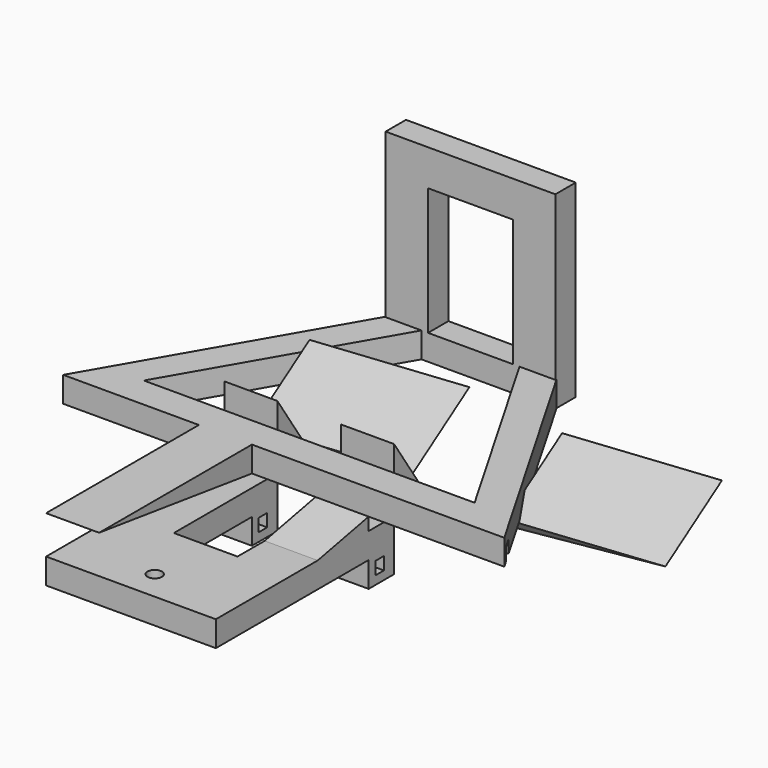
from build123d import *

# Parameters (mm, degrees)
BOX023_W                                  = 220
BOX023_H                                  = 2.5
BOX023_DEPTH                              = 3
EXTRUDE011_DEPTH                          = 10
BOX024_W                                  = 220
BOX024_H                                  = 113
BOX024_DEPTH                              = 8
BOX026_W                                  = 32
BOX026_H                                  = 6
BOX026_DEPTH                              = 6
PRISM004_DEPTH                            = 6
PRISM004_PLACEMENT_ANGLE                  = 30
PRISM005_DEPTH                            = 6
PRISM005_PLACEMENT_ANGLE                  = 30
BOX033_W                                  = 220
BOX033_H                                  = 2.5
BOX033_DEPTH                              = 3
EXTRUDE012_DEPTH                          = 12.5
EXTRUDE014_DEPTH                          = 12.5
EXTRUDE013_DEPTH                          = 12.5
EXTRUDE015_DEPTH                          = 12.5
BOX009_W                                  = 12.5
BOX009_H                                  = 7.5
BOX009_DEPTH                              = 12
BOX010_W                                  = 12.5
BOX010_H                                  = 7.5
BOX010_DEPTH                              = 12
CYLINDER_R                                = 1.7
CYLINDER_DEPTH                            = 30
BOX007_W                                  = 15
BOX007_H                                  = 70
BOX007_DEPTH                              = 6
BOX006_W                                  = 40
BOX006_H                                  = 51
BOX006_DEPTH                              = 6
EXTRUDE016_DEPTH                          = 20
EXTRUDE016_ONTO_SKETCH014_ROLL_ANGLE      = 56.309932
EXTRUDE016_ONTO_SKETCH014_PLACEMENT_ANGLE = 180
EXTRUDE017_DEPTH                          = 20
EXTRUDE017_ONTO_SKETCH014_ROLL_ANGLE      = 56.309932
EXTRUDE017_ONTO_SKETCH014_PLACEMENT_ANGLE = 180
BOX005_W                                  = 20
BOX005_H                                  = 6
BOX005_DEPTH                              = 30
BOX004_W                                  = 40
BOX004_H                                  = 6
BOX004_DEPTH                              = 44.5


with BuildPart() as obj1:
    # Box023 → Box023 (new body)
    with BuildSketch(Plane(origin=(-110, 2, 0), x_dir=(1, 0, 0), z_dir=(0, 0, 1))):
        with Locations((110, 1.25)):
            Rectangle(BOX023_W, BOX023_H)
    extrude(amount=BOX023_DEPTH)


with BuildPart() as extrude011:
    # Sketch009 → Extrude011 (new body)
    with BuildSketch(Plane.XY):
        Polygon((-95, 0), (95, 0), (85, 61), (-85, 61), align=None)
    extrude(amount=EXTRUDE011_DEPTH)


with BuildPart() as obj2:
    # Box024 → Box024 (new body)
    with BuildSketch(Plane(origin=(-110, -15, 0), x_dir=(1, 0, 0), z_dir=(0, 0, 1))):
        with Locations((110, 56.5)):
            Rectangle(BOX024_W, BOX024_H)
    extrude(amount=BOX024_DEPTH)

    # Cut004020: cut Extrude011
    add(extrude011.part, mode=Mode.SUBTRACT)


with BuildPart() as cube025:
    # Box026 → Box026 (new body)
    with BuildSketch(Plane(origin=(-16, 55, 0), x_dir=(1, 0, 0), z_dir=(0, 0, 1))):
        with Locations((16, 3)):
            Rectangle(BOX026_W, BOX026_H)
    extrude(amount=BOX026_DEPTH)


with BuildPart() as prism004:
    # Prism004 → Prism004 (new body)
    with BuildSketch(Plane.XY):
        Polygon((45, 0), (-22.5, 38.971143), (-22.5, -38.971143), align=None)
    extrude(amount=PRISM004_DEPTH)


with BuildPart() as prism004_1:
    # Prism004 placement: moved
    add(prism004.part.moved(Location((0, 23, 0))).rotate(Axis((0, 23, 0), (0, 0, -1)), PRISM004_PLACEMENT_ANGLE))


with BuildPart() as obj3:
    # Prism005 → Prism005 (new body)
    with BuildSketch(Plane.XY):
        Polygon((60, 0), (-30, 51.961524), (-30, -51.961524), align=None)
    extrude(amount=PRISM005_DEPTH)


with BuildPart() as obj3_1:
    # Prism005 placement: moved
    add(obj3.part.moved(Location((0, 23, 0))).rotate(Axis((0, 23, 0), (0, 0, -1)), PRISM005_PLACEMENT_ANGLE))

    # Cut004019: cut Prism004
    add(prism004_1.part, mode=Mode.SUBTRACT)


with BuildPart() as obj3_2:
    # Cut004019 placement: moved
    add(obj3_1.part.moved(Location((0, 7, 0))))

    # Fusion004005: union Cube025
    add(cube025.part)

    # Cut004015: cut obj2
    add(obj2.part, mode=Mode.SUBTRACT)

    # Cut004016: cut obj1
    add(obj1.part, mode=Mode.SUBTRACT)


with BuildPart() as obj4:
    # Box033 → Box033 (new body)
    with BuildSketch(Plane(origin=(-110, 2, 0), x_dir=(1, 0, 0), z_dir=(0, 0, 1))):
        with Locations((110, 1.25)):
            Rectangle(BOX033_W, BOX033_H)
    extrude(amount=BOX033_DEPTH)


with BuildPart() as obj5:
    # Sketch011 (on Face1 of Box010) → Extrude012 (new body)
    with BuildSketch(Plane(origin=(-20, 0, 13), x_dir=(0, -1, 0), z_dir=(-1, 0, 0))):
        Polygon((-7.5, 12), (-7.5, 0), (-15.5, 0), align=None)
    extrude(amount=EXTRUDE012_DEPTH)


with BuildPart() as obj5_1:
    # Extrude012 placement: moved
    add(obj5.part.moved(Location((40, 0, 0))))


with BuildPart() as obj6:
    # Sketch012 (on Face1 of Box032) → Extrude014 (new body)
    with BuildSketch(Plane(origin=(-20, 0, 13), x_dir=(0, -1, 0), z_dir=(-1, 0, 0))):
        Polygon((-7.5, 12), (-7.5, 0), (-15.5, 0), align=None)
    extrude(amount=EXTRUDE014_DEPTH)


with BuildPart() as obj6_1:
    # Extrude014 placement: moved
    add(obj6.part.moved(Location((12.5, 0, 0))))


with BuildPart() as obj7:
    # Sketch010 (on Face17 of Fusion004002) → Extrude013 (new body)
    with BuildSketch(Plane(origin=(-20, 0, -15), x_dir=(0, -1, 0), z_dir=(-1, 0, 0))):
        Polygon((0, 28), (0, 19), (45, 19), align=None)
    extrude(amount=EXTRUDE013_DEPTH)


with BuildPart() as obj7_1:
    # Extrude013 placement: moved
    add(obj7.part.moved(Location((40, 0, 0))))


with BuildPart() as obj8:
    # Sketch013 → Extrude015 (new body)
    with BuildSketch(Plane(origin=(-20, 0, 0), x_dir=(0, -1, 0), z_dir=(-1, 0, 0))):
        Polygon((0, 13), (0, 19), (45, 19), align=None)
    extrude(amount=EXTRUDE015_DEPTH)


with BuildPart() as obj8_1:
    # Extrude015 placement: moved
    add(obj8.part.moved(Location((12.5, 0, 0))))


with BuildPart() as cube008:
    # Box009 → Box009 (new body)
    with BuildSketch(Plane(origin=(7.5, 0, 13), x_dir=(1, 0, 0), z_dir=(0, 0, 1))):
        with Locations((6.25, 3.75)):
            Rectangle(BOX009_W, BOX009_H)
    extrude(amount=BOX009_DEPTH)


with BuildPart() as cube009:
    # Box010 → Box010 (new body)
    with BuildSketch(Plane(origin=(-20, 0, 13), x_dir=(1, 0, 0), z_dir=(0, 0, 1))):
        with Locations((6.25, 3.75)):
            Rectangle(BOX010_W, BOX010_H)
    extrude(amount=BOX010_DEPTH)


with BuildPart() as cylinder:
    # Cylinder → Cylinder (new body)
    with BuildSketch(Plane(origin=(0, 7, 0), x_dir=(1, 0, 0), z_dir=(0, 0, 1))):
        Circle(CYLINDER_R)
    extrude(amount=CYLINDER_DEPTH)


with BuildPart() as cube007:
    # Box007 → Box007 (new body)
    with BuildSketch(Plane(origin=(12.5, 22, 20), x_dir=(1, 0, 0), z_dir=(0, 0, 1))):
        with Locations((7.5, 35)):
            Rectangle(BOX007_W, BOX007_H)
    extrude(amount=BOX007_DEPTH)


with BuildPart() as obj9:
    # Box006 → Box006 (new body)
    with BuildSketch(Plane.XY.offset(20)):
        with Locations((20, 25.5)):
            Rectangle(BOX006_W, BOX006_H)
    extrude(amount=BOX006_DEPTH)

    # Cut004005: cut Cube007
    add(cube007.part, mode=Mode.SUBTRACT)


with BuildPart() as obj9_1:
    # Cut004005 placement: moved
    add(obj9.part.moved(Location((-20, 0, -1))))

    # Cut004006: cut Cylinder
    add(cylinder.part, mode=Mode.SUBTRACT)


with BuildPart() as obj9_2:
    # Cut004006 placement: moved
    add(obj9_1.part.moved(Location((0, -45, 0))))

    # Fusion004002: union Cube008, Cube009
    add(cube008.part)
    add(cube009.part)


with BuildPart() as obj9_3:
    # Fusion004002 placement: moved
    add(obj9_2.part.moved(Location((0, 0, -15))))

    # Fusion004009003: union obj5, obj6, obj7, obj8
    add(obj5_1.part)
    add(obj6_1.part)
    add(obj7_1.part)
    add(obj8_1.part)

    # Cut004022: cut obj4
    add(obj4.part, mode=Mode.SUBTRACT)


with BuildPart() as obj9_4:
    # Cut004022 placement: moved
    add(obj9_3.part.moved(Location((0, 0, -13))))


with BuildPart() as obj10:
    # Sketch014 as drawn → Extrude016 (new)
    with BuildSketch(Plane.XY):
        Polygon((-20, 6.656402), (20, 1.38675), (20, -1.1094), align=None)
    extrude(amount=EXTRUDE016_DEPTH)


with BuildPart() as obj10_1:
    # Extrude016 onto Sketch014 roll: moved
    add(obj10.part.rotate(Axis((0, 0, 0), (1, 0, 0)), EXTRUDE016_ONTO_SKETCH014_ROLL_ANGLE))


with BuildPart() as obj10_2:
    # Extrude016 onto Sketch014 placement: moved
    add(obj10_1.part.moved(Location((0, 16.730769, -1.846154))).rotate(Axis((0, 16.730769, -1.846154), (0, 0, 1)), EXTRUDE016_ONTO_SKETCH014_PLACEMENT_ANGLE))


with BuildPart() as obj11:
    # Sketch014 as drawn → Extrude017 (new)
    with BuildSketch(Plane.XY):
        Polygon((-20, 6.656402), (20, 1.38675), (20, -1.1094), align=None)
    extrude(amount=EXTRUDE017_DEPTH)


with BuildPart() as obj11_1:
    # Extrude017 onto Sketch014 roll: moved
    add(obj11.part.rotate(Axis((0, 0, 0), (1, 0, 0)), EXTRUDE017_ONTO_SKETCH014_ROLL_ANGLE))


with BuildPart() as obj11_2:
    # Extrude017 onto Sketch014 placement: moved
    add(obj11_1.part.moved(Location((0, 16.730769, -1.846154))).rotate(Axis((0, 16.730769, -1.846154), (0, 0, 1)), EXTRUDE017_ONTO_SKETCH014_PLACEMENT_ANGLE))


with BuildPart() as obj11_3:
    # Extrude017 placement: moved
    add(obj11_2.part.moved(Location((59.5, 0, 0))))


with BuildPart() as cube005:
    # Box005 → Box005 (new body)
    with BuildSketch(Plane(origin=(-10, 55, 6), x_dir=(1, 0, 0), z_dir=(0, 0, 1))):
        with Locations((10, 3)):
            Rectangle(BOX005_W, BOX005_H)
    extrude(amount=BOX005_DEPTH)


with BuildPart() as obj12:
    # Box004 → Box004 (new body)
    with BuildSketch(Plane(origin=(-20, 55, 0), x_dir=(1, 0, 0), z_dir=(0, 0, 1))):
        with Locations((20, 3)):
            Rectangle(BOX004_W, BOX004_H)
    extrude(amount=BOX004_DEPTH)

    # Cut004004: cut Cube005
    add(cube005.part, mode=Mode.SUBTRACT)

    # Fusion004009004: union obj3, obj9, obj10, obj11
    add(obj3_2.part)
    add(obj9_4.part)
    add(obj10_2.part)
    add(obj11_3.part)


solid = obj12.part
